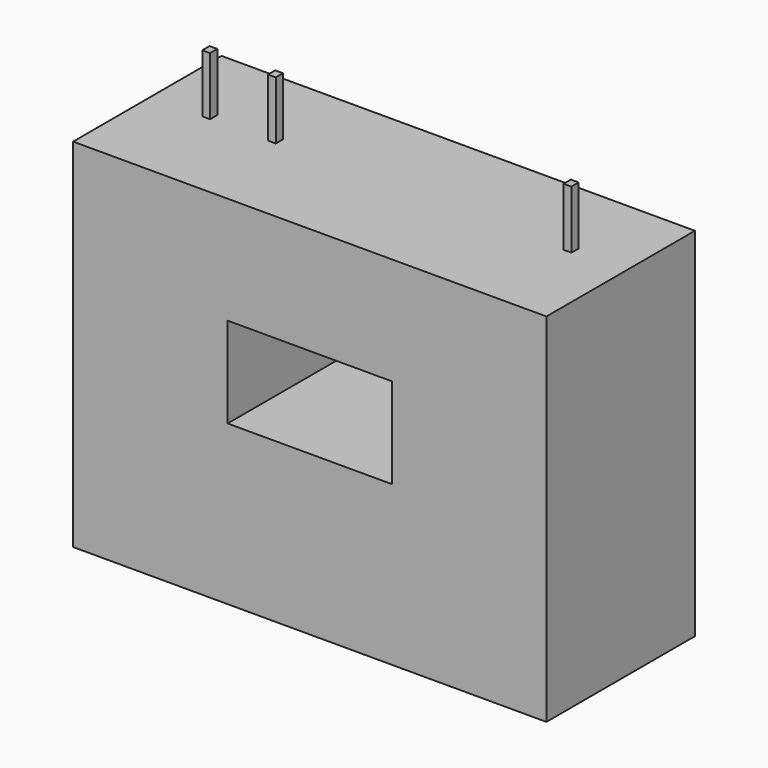
from build123d import *

# Parameters (mm, degrees)
SKETCH001_W      = 36.6
SKETCH001_H      = 14.35
EXTRUDE001_DEPTH = 27.6
SKETCH002_W      = 12.7
SKETCH002_H      = 7
POCKET_DEPTH     = 14.351
PAD_DEPTH        = 0.5
SKETCH_W         = 0.6
SKETCH_H         = 0.7
EXTRUDE_DEPTH    = 4.5


with BuildPart() as pad:
    # Sketch001 → Extrude001 (new body)
    with BuildSketch(Plane.XY):
        with Locations((13.97, -0.625)):
            Rectangle(SKETCH001_W, SKETCH001_H)
    extrude(amount=-EXTRUDE001_DEPTH)

    # Sketch002 → Pocket (cut, through all)
    with BuildSketch(Plane(origin=(0, 6.55, 0), x_dir=(-1, 0, 0), z_dir=(0, 1, 0))):
        with Locations((-13.97, -11.8)):
            Rectangle(SKETCH002_W, SKETCH002_H)
    extrude(amount=-POCKET_DEPTH, mode=Mode.SUBTRACT)

    # Sketch003 → Pad (new body)
    with BuildSketch(Plane(origin=(0, 0, -27.6), x_dir=(1, 0, 0), z_dir=(0, 0, -1))):
        Polygon((11.900003, 6.871569), (15.047757, 6.871569), (15.047757, 1.54931), (18.396286, 1.54931), (13.47388, -5.396754), (8.551474, 1.54931), (11.900003, 1.54931), align=None)
    extrude(amount=PAD_DEPTH)


with BuildPart() as fusion:
    # Sketch → Extrude (new body)
    with BuildSketch(Plane.XY):
        Rectangle(SKETCH_W, SKETCH_H)
        with Locations((5.08, 0)):
            Rectangle(SKETCH_W, SKETCH_H)
        with Locations((27.94, 0)):
            Rectangle(SKETCH_W, SKETCH_H)
    extrude(amount=EXTRUDE_DEPTH)

    # Fusion: union Pad
    add(pad.part)


solid = fusion.part
